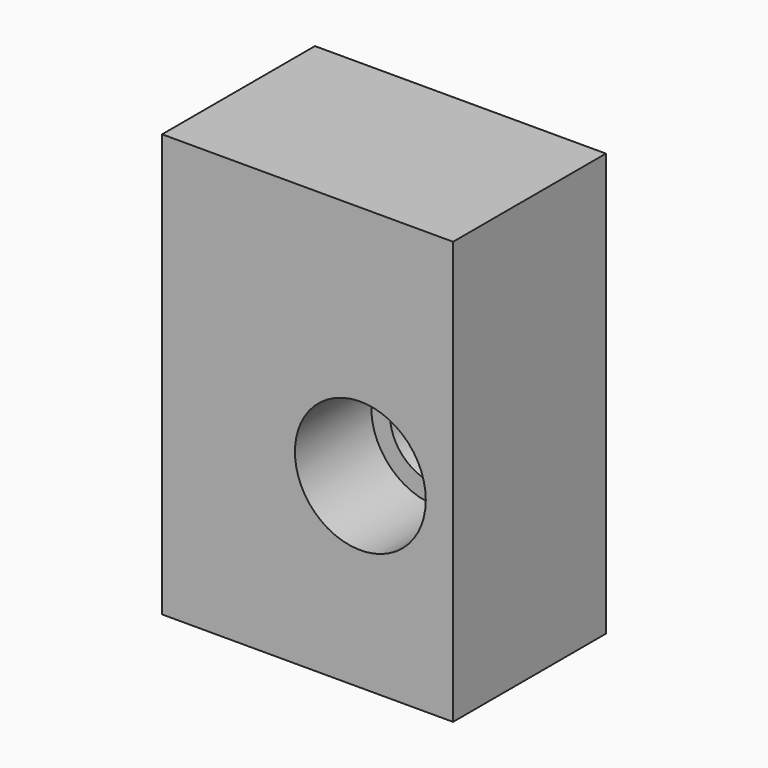
from build123d import *

# Parameters (mm, degrees)
F0_W           = 42.676814
F0_H           = 28.017944
F1_DEPTH       = 62
F3_D           = 13.74
F3_CBORE_D     = 19.2
F3_CBORE_DEPTH = 14


with BuildPart() as f1:
    # F0 (on Top) → F1 (new body)
    with BuildSketch(Plane.XY):
        with Locations((-21.338407, 18.12501)):
            Rectangle(F0_W, F0_H)
    extrude(amount=F1_DEPTH)

    # F3 (through all)
    with Locations(Plane.XZ.offset(-4.116038)):
        with Locations((-13.598145, 27.348008)):
            CounterBoreHole(F3_D / 2, F3_CBORE_D / 2, F3_CBORE_DEPTH)


solid = f1.part
